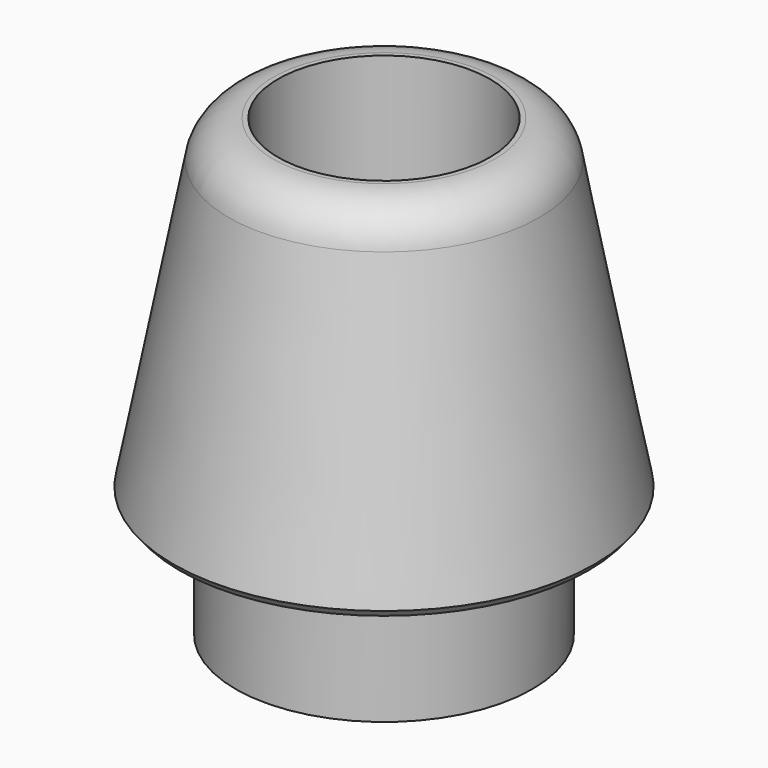
from build123d import *

# Parameters (mm, degrees)
F2_R    = 1.5
F3_SIZE = 0.25


with BuildPart() as f1:
    # F0 (on Front) → F1 (revolve)
    with BuildSketch(Plane.XZ):
        Polygon((3.5, 15), (3.5, 0), (4.9, 0), (4.9, 4.048668), (7, 4.048668), (4.9, 15), align=None)
    revolve(axis=Axis((0, 0, 7.5), (0, 0, 1)))

    # F2
    f2_edges = [f1.edges().sort_by_distance(p)[0] for p in [
        (-4.9, 0, 15),
    ]]
    fillet(f2_edges, radius=F2_R)

    # F3
    f3_edges = [f1.edges().sort_by_distance(p)[0] for p in [
        (-7, 0, 4.048668),
    ]]
    chamfer(f3_edges, length=F3_SIZE)


solid = f1.part
